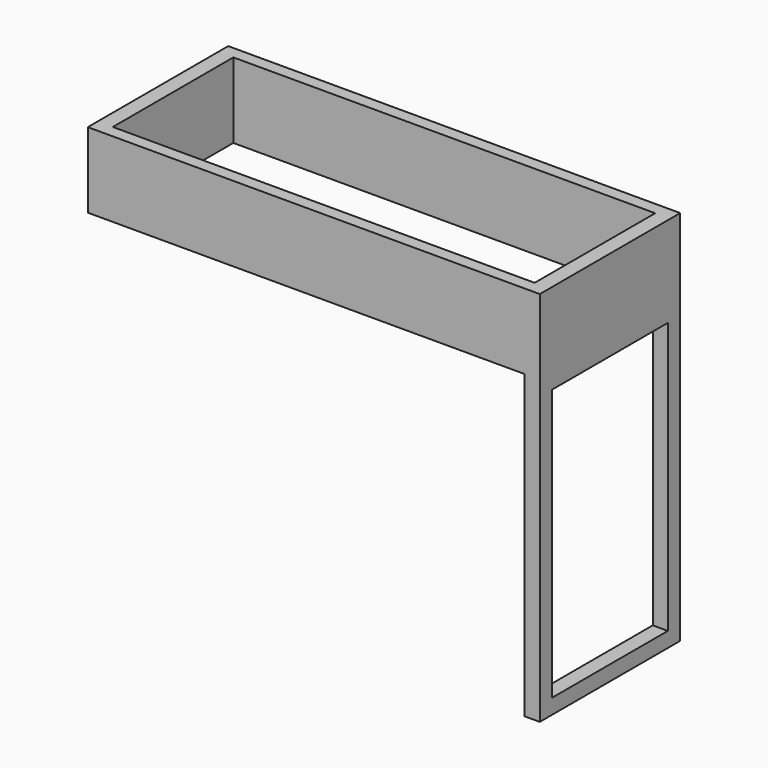
from build123d import *

# Parameters (mm, degrees)
F1_DEPTH = 15.875
F3_DEPTH = 3.175


with BuildPart() as f1:
    # F0 (on Top) → F1 (new body)
    with BuildSketch(Plane.XY):
        Polygon((-47.625, 18.49301), (-44.45, 15.875), (0, 15.875), (44.45, 15.875), (47.625, 18.49301), align=None)
        Polygon((-44.45, 0), (-44.45, 15.875), (-47.625, 18.49301), (-47.625, -18.49301), (-44.45, -15.875), align=None)
        Polygon((47.625, 18.49301), (44.45, 15.875), (44.45, 0), (44.45, -15.875), (47.625, -18.49301), align=None)
        Polygon((0, -15.875), (-44.45, -15.875), (-47.625, -18.49301), (47.625, -18.49301), (44.45, -15.875), align=None)
    extrude(amount=F1_DEPTH)

    # F2 (on face) → F3 (join)
    with BuildSketch(Plane.YZ.offset(47.625)):
        Polygon((18.49301, 0), (-18.49301, 0), (-15.24, -3.175), (15.24, -3.175), (15.24, -60.325), (18.49301, -63.5), align=None)
        Polygon((-15.24, -3.175), (-18.49301, 0), (-18.49301, -63.5), (-15.24, -60.325), align=None)
        Polygon((-15.24, -60.325), (-18.49301, -63.5), (18.49301, -63.5), (15.24, -60.325), align=None)
    extrude(amount=-F3_DEPTH)


solid = f1.part
